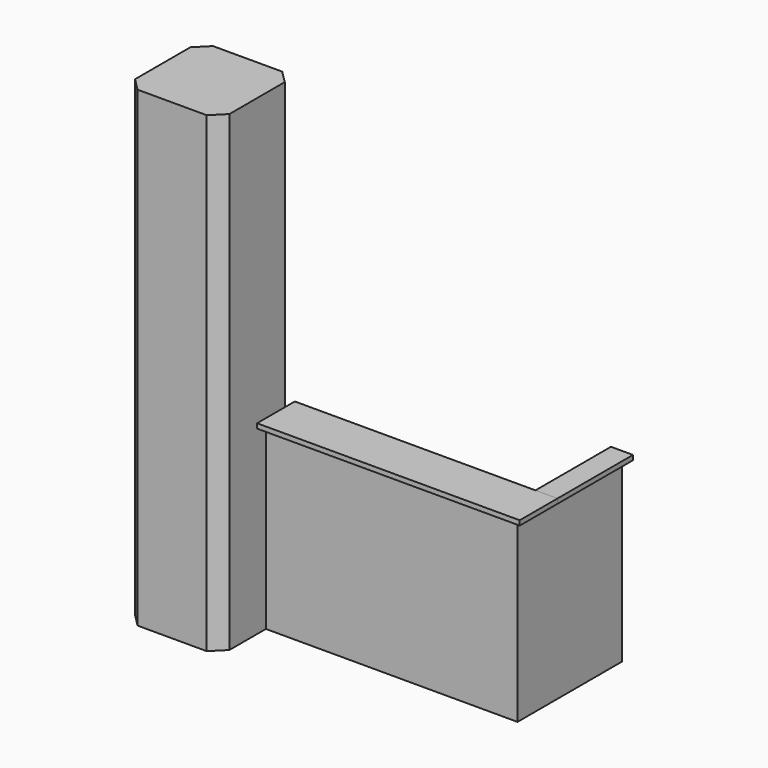
from build123d import *

# Parameters (mm, degrees)
F0_W      = 19
F0_H      = 810
F1_DEPTH  = 1150
F3_W      = 1750
F3_H      = 800
F4_DEPTH  = 25
F6_W      = 1670
F6_H      = 300
F7_DEPTH  = 30
F8_W      = 140
F8_H      = 600
F9_DEPTH  = 30
F10_W     = 600
F10_H     = 600
F11_DEPTH = 3000
F12_SIZE  = 80


with BuildPart() as f1:
    # F0 (on Top) → F1 (new body)
    with BuildSketch(Plane.XY):
        Polygon((800, -9.5), (800, 9.5), (781, 9.5), (-800, 9.5), (-800, -9.5), align=None)
        with Locations((790.5, 414.5)):
            Rectangle(F0_W, F0_H)
    extrude(amount=F1_DEPTH)


with BuildPart() as f4:
    # F3 (on offset) → F4 (new body)
    with BuildSketch(Plane.XY.offset(700)):
        with Locations((-94, 409.5)):
            Rectangle(F3_W, F3_H)
    extrude(amount=F4_DEPTH)


with BuildPart() as f7:
    # F6 (on offset) → F7 (new body)
    with BuildSketch(Plane.XY.offset(1150)):
        with Locations((35, 70.5)):
            Rectangle(F6_W, F6_H)
    extrude(amount=F7_DEPTH)


with BuildPart() as f9:
    # F8 (on offset) → F9 (new body)
    with BuildSketch(Plane.XY.offset(1150)):
        with Locations((800, 520.5)):
            Rectangle(F8_W, F8_H)
    extrude(amount=F9_DEPTH)


with BuildPart() as f11:
    # F10 (on Top) → F11 (new body)
    with BuildSketch(Plane.XY):
        with Locations((-1100, -79.5)):
            Rectangle(F10_W, F10_H)
    extrude(amount=F11_DEPTH)

    # F12
    f12_edges = [f11.edges().sort_by_distance(p)[0] for p in [
        (-800, 220.5, 1500),
        (-800, -379.5, 1500),
        (-1400, 220.5, 1500),
        (-1400, -379.5, 1500),
    ]]
    chamfer(f12_edges, length=F12_SIZE)


solid = Compound([f1.part, f4.part, f7.part, f9.part, f11.part])
